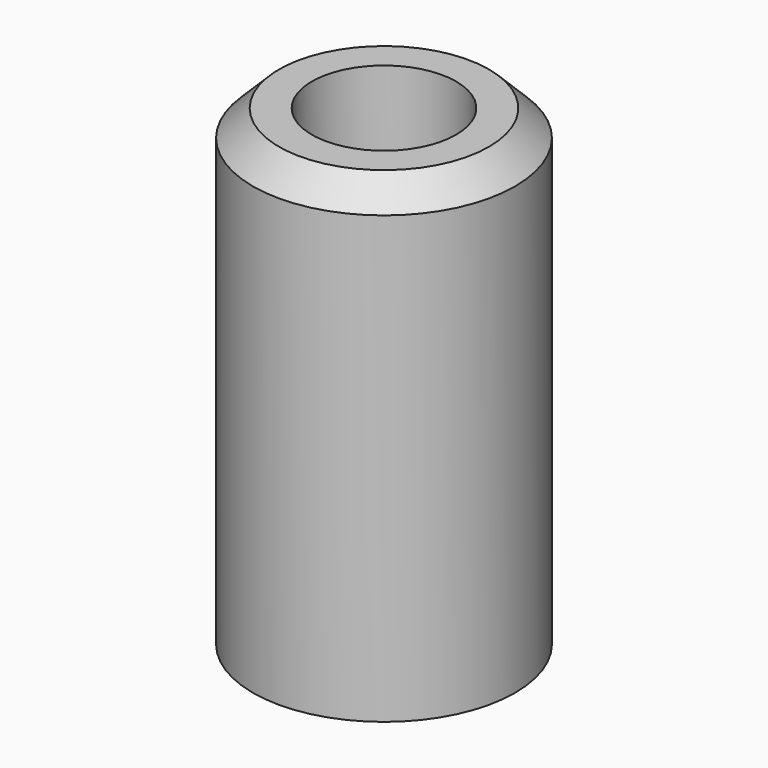
from build123d import *

# Parameters (mm, degrees)
SKETCH_R     = 5
SKETCH_R_2   = 1.5
PAD_DEPTH    = 18
SKETCH001_R  = 2.75
POCKET_DEPTH = 3
CHAMFER_SIZE = 1


with BuildPart() as part:
    # Sketch → Pad (new body)
    with BuildSketch(Plane.XY):
        Circle(SKETCH_R)
        Circle(SKETCH_R_2, mode=Mode.SUBTRACT)
    extrude(amount=PAD_DEPTH)

    # Sketch001 (on Face4 of Pad) → Pocket (cut)
    with BuildSketch(Plane.XY.offset(18)):
        Circle(SKETCH001_R)
    extrude(amount=-POCKET_DEPTH, mode=Mode.SUBTRACT)

    # Chamfer
    chamfer_edges = [part.edges().sort_by_distance(p)[0] for p in [
        (-5, 0, 18),
    ]]
    chamfer(chamfer_edges, length=CHAMFER_SIZE)


solid = part.part
